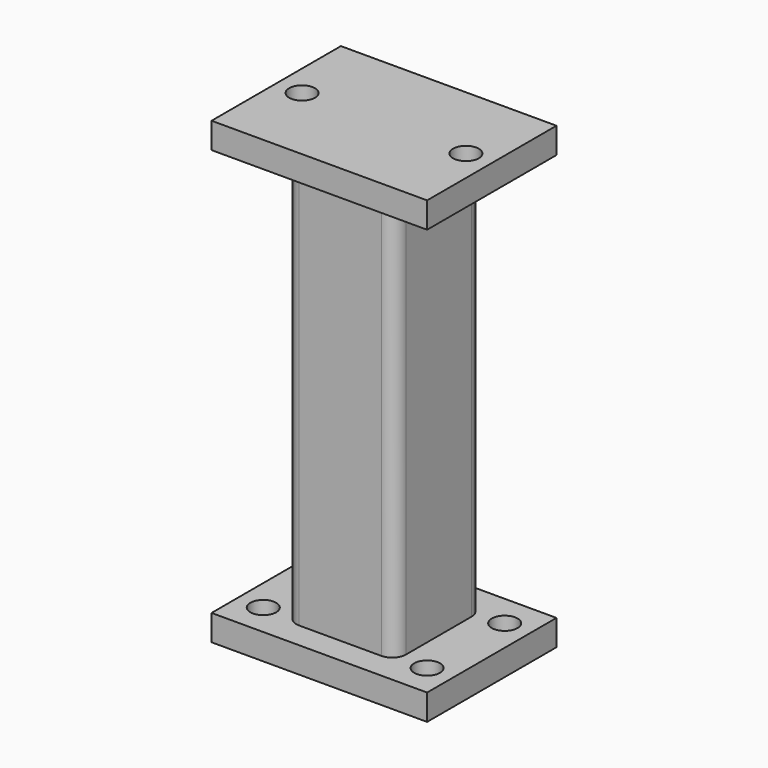
from build123d import *

# Parameters (mm, degrees)
F0_W     = 100
F0_H     = 75
F1_DEPTH = 12
F3_DEPTH = 189
F5_W     = 100
F5_H     = 75
F6_DEPTH = 12
F8_D     = 12
F8_DEPTH = 12
F8_TIP   = 3.6051637142
F9_D     = 12
F9_DEPTH = 12
F9_TIP   = 3.6051637142


with BuildPart() as f1:
    # F0 (on Top) → F1 (new body)
    with BuildSketch(Plane.XY):
        Rectangle(F0_W, F0_H)
    extrude(amount=-F1_DEPTH)

    # F2 (on face) → F3 (join)
    with BuildSketch(Plane.XY):
        with BuildLine():
            Line((-19.05, -25.4), (19.05, -25.4))
            ThreePointArc((19.05, -25.4), (23.5401280605, -23.5401280605), (25.4, -19.05))
            Line((25.4, -19.05), (25.4, 19.05))
            ThreePointArc((25.4, 19.05), (23.5401280605, 23.5401280605), (19.05, 25.4))
            Line((19.05, 25.4), (-19.05, 25.4))
            ThreePointArc((-19.05, 25.4), (-23.5401280605, 23.5401280605), (-25.4, 19.05))
            Line((-25.4, 19.05), (-25.4, -19.05))
            ThreePointArc((-25.4, -19.05), (-23.5401280605, -23.5401280605), (-19.05, -25.4))
        make_face()
        with BuildLine():
            Line((-12.7, 19.05), (12.7, 19.05))
            ThreePointArc((12.7, 19.05), (17.1901280605, 17.1901280605), (19.05, 12.7))
            Line((19.05, 12.7), (19.05, -12.7))
            ThreePointArc((19.05, -12.7), (17.1901280605, -17.1901280605), (12.7, -19.05))
            Line((12.7, -19.05), (-12.7, -19.05))
            ThreePointArc((-12.7, -19.05), (-17.1901280605, -17.1901280605), (-19.05, -12.7))
            Line((-19.05, -12.7), (-19.05, 12.7))
            ThreePointArc((-19.05, 12.7), (-17.1901280605, 17.1901280605), (-12.7, 19.05))
        make_face(mode=Mode.SUBTRACT)
    extrude(amount=F3_DEPTH)

    # F5 (on face) → F6 (join)
    with BuildSketch(Plane.XY.offset(189)):
        Rectangle(F5_W, F5_H)
        with BuildLine():
            Line((19.05, -25.4), (-19.05, -25.4))
            ThreePointArc((-19.05, -25.4), (-23.5401280605, -23.5401280605), (-25.4, -19.05))
            Line((-25.4, -19.05), (-25.4, 19.05))
            ThreePointArc((-25.4, 19.05), (-23.5401280605, 23.5401280605), (-19.05, 25.4))
            Line((-19.05, 25.4), (19.05, 25.4))
            ThreePointArc((19.05, 25.4), (23.5401280605, 23.5401280605), (25.4, 19.05))
            Line((25.4, 19.05), (25.4, -19.05))
            ThreePointArc((25.4, -19.05), (23.5401280605, -23.5401280605), (19.05, -25.4))
        make_face(mode=Mode.SUBTRACT)
        with BuildLine():
            ThreePointArc((-25.4, -19.05), (-23.5401280605, -23.5401280605), (-19.05, -25.4))
            Line((-19.05, -25.4), (19.05, -25.4))
            ThreePointArc((19.05, -25.4), (23.5401280605, -23.5401280605), (25.4, -19.05))
            Line((25.4, -19.05), (25.4, 19.05))
            ThreePointArc((25.4, 19.05), (23.5401280605, 23.5401280605), (19.05, 25.4))
            Line((19.05, 25.4), (-19.05, 25.4))
            ThreePointArc((-19.05, 25.4), (-23.5401280605, 23.5401280605), (-25.4, 19.05))
            Line((-25.4, 19.05), (-25.4, -19.05))
        make_face()
        with BuildLine():
            Line((-19.05, -12.7), (-19.05, 12.7))
            ThreePointArc((-19.05, 12.7), (-17.1901280605, 17.1901280605), (-12.7, 19.05))
            Line((-12.7, 19.05), (12.7, 19.05))
            ThreePointArc((12.7, 19.05), (17.1901280605, 17.1901280605), (19.05, 12.7))
            Line((19.05, 12.7), (19.05, -12.7))
            ThreePointArc((19.05, -12.7), (17.1901280605, -17.1901280605), (12.7, -19.05))
            Line((12.7, -19.05), (-12.7, -19.05))
            ThreePointArc((-12.7, -19.05), (-17.1901280605, -17.1901280605), (-19.05, -12.7))
        make_face(mode=Mode.SUBTRACT)
        with BuildLine():
            ThreePointArc((-12.7, 19.05), (-17.1901280605, 17.1901280605), (-19.05, 12.7))
            Line((-19.05, 12.7), (-19.05, -12.7))
            ThreePointArc((-19.05, -12.7), (-17.1901280605, -17.1901280605), (-12.7, -19.05))
            Line((-12.7, -19.05), (12.7, -19.05))
            ThreePointArc((12.7, -19.05), (17.1901280605, -17.1901280605), (19.05, -12.7))
            Line((19.05, -12.7), (19.05, 12.7))
            ThreePointArc((19.05, 12.7), (17.1901280605, 17.1901280605), (12.7, 19.05))
            Line((12.7, 19.05), (-12.7, 19.05))
        make_face()
    extrude(amount=F6_DEPTH)

    # F8
    with Locations(Plane.XY.offset(201)):
        with Locations((-38, 0), (38, 0)):
            Hole(F8_D / 2, depth=F8_DEPTH)
            with Locations((0, 0, -(F8_DEPTH + F8_TIP / 2))):  # 118° drill point
                Cone(0, F8_D / 2, F8_TIP, mode=Mode.SUBTRACT)

    # F9 (one way)
    with BuildSketch(Plane.XY):
        with Locations((-38, 22.5), (38, 22.5), (38, -22.5), (-38, -22.5)):
            Circle(F9_D / 2)
    extrude(amount=-F9_DEPTH, mode=Mode.SUBTRACT)
    with Locations(Plane.XY):
        with Locations((-38, 22.5), (38, 22.5), (38, -22.5), (-38, -22.5)):
            with Locations((0, 0, -(F9_DEPTH + F9_TIP / 2))):  # 118° drill point
                Cone(0, F9_D / 2, F9_TIP, mode=Mode.SUBTRACT)


solid = f1.part
